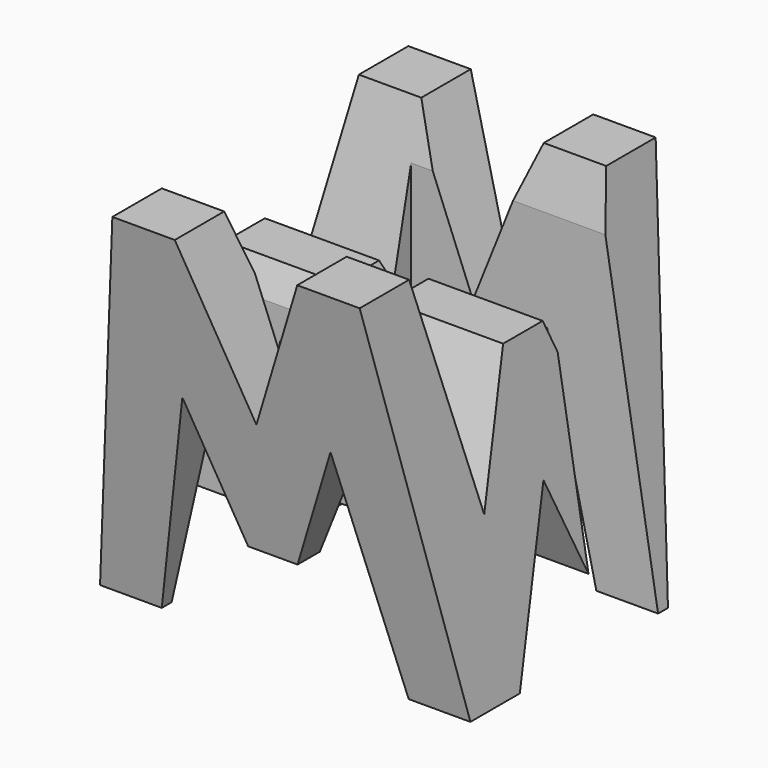
from build123d import *

# Parameters (mm, degrees)
F0_W      = 38.1
F0_H      = 37.973095
F1_DEPTH  = 38.1
F6_DEPTH  = 38.1
F8_DEPTH  = 38.1
F9_W      = 25.4
F9_H      = 7.62
F10_DEPTH = 38.1


with BuildPart() as f1:
    # F0 (on Front) → F1 (new body)
    with BuildSketch(Plane.XZ):
        with Locations((19.05, 18.986548)):
            Rectangle(F0_W, F0_H)
    extrude(amount=F1_DEPTH)

    # F5 (on offset) → F6 (cut)
    with BuildSketch(Plane.YZ.offset(38.1)):
        Polygon((-11.43, 15.875), (-6.35, 38.1), (-31.75, 38.1), (-26.67, 15.875), (-21.59, 28.575), (-16.51, 28.575), align=None)
        Polygon((-6.35, 0), (0, 0), (0, 38.1), align=None)
        Polygon((-25.4, 0), (-12.7, 0), (-19.05, 15.875), align=None)
        Polygon((-31.75, 0), (-38.1, 38.1), (-38.1, 0), align=None)
    extrude(amount=-F6_DEPTH, mode=Mode.SUBTRACT)

    # F7 (on offset) → F8 (cut)
    with BuildSketch(Plane.XZ.offset(38.1)):
        Polygon((11.43, 22.225), (6.35, 0), (31.75, 0), (26.67, 22.225), (21.59, 9.525), (16.51, 9.525), align=None)
        Polygon((25.4, 38.1), (12.7, 38.1), (19.05, 22.225), align=None)
        Polygon((31.75, 38.1), (38.1, 0), (38.1, 38.1), align=None)
        Polygon((0, 38.1), (0, 0), (6.35, 38.1), align=None)
    extrude(amount=-F8_DEPTH, mode=Mode.SUBTRACT)

    # F9 (on offset) → F10 (cut)
    with BuildSketch(Plane.XY.offset(38.1)):
        with Locations((25.4, -11.43)):
            Rectangle(F9_W, F9_H)
        with Locations((12.7, -26.67)):
            Rectangle(F9_W, F9_H)
    extrude(amount=-F10_DEPTH, mode=Mode.SUBTRACT)


solid = f1.part
